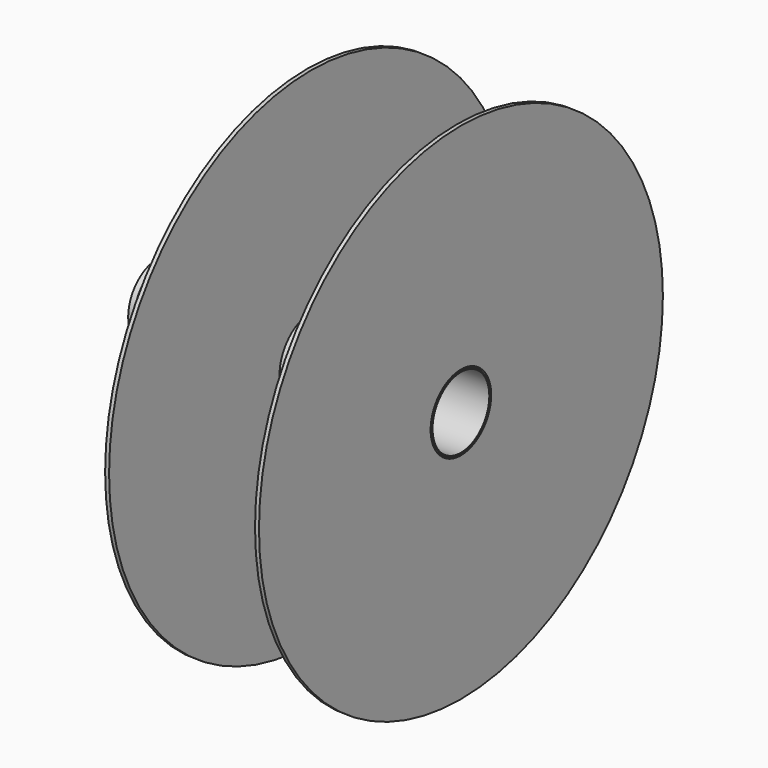
from build123d import *

# Parameters (mm, degrees)
F0_R     = 15.875
F0_R_2   = 14.605
F0_R_3   = 14.2875
F1_DEPTH = 61.11875
F2_R     = 15.875
F2_R_2   = 14.605
F3_DEPTH = 3.175
F4_R     = 15.875
F4_R_2   = 14.605
F5_DEPTH = 3.175
F6_R     = 101.6
F6_R_2   = 15.24
F7_DEPTH = 1.5875
F8_R     = 101.6
F8_R_2   = 15.875
F9_DEPTH = 0.79375


with BuildPart() as f1:
    # F0 (on Right) → F1 (new body, symmetric)
    with BuildSketch(Plane.YZ):
        Circle(F0_R)
        Circle(F0_R_2, mode=Mode.SUBTRACT)
        Circle(F0_R_2)
        Circle(F0_R_3, mode=Mode.SUBTRACT)
    extrude(amount=F1_DEPTH, both=True)

    # F2 (on face) → F3 (cut)
    with BuildSketch(Plane.YZ.offset(61.11875)):
        Circle(F2_R)
        Circle(F2_R_2, mode=Mode.SUBTRACT)
    extrude(amount=-F3_DEPTH, mode=Mode.SUBTRACT)

    # F4 (on face) → F5 (cut)
    with BuildSketch(Plane(origin=(-61.11875, 0, 0), x_dir=(0, -1, 0), z_dir=(-1, 0, 0))):
        Circle(F4_R)
        Circle(F4_R_2, mode=Mode.SUBTRACT)
    extrude(amount=-F5_DEPTH, mode=Mode.SUBTRACT)


with BuildPart() as f7:
    # F6 (on face) → F7 (new body)
    with BuildSketch(Plane.YZ.offset(61.11875)):
        Circle(F6_R)
        Circle(F6_R_2, mode=Mode.SUBTRACT)
    extrude(amount=-F7_DEPTH)


with BuildPart() as f9:
    # F8 (on Right) → F9 (new body, symmetric)
    with BuildSketch(Plane.YZ):
        Circle(F8_R)
        Circle(F8_R_2, mode=Mode.SUBTRACT)
    extrude(amount=F9_DEPTH, both=True)


solid = Compound([f1.part, f7.part, f9.part])
